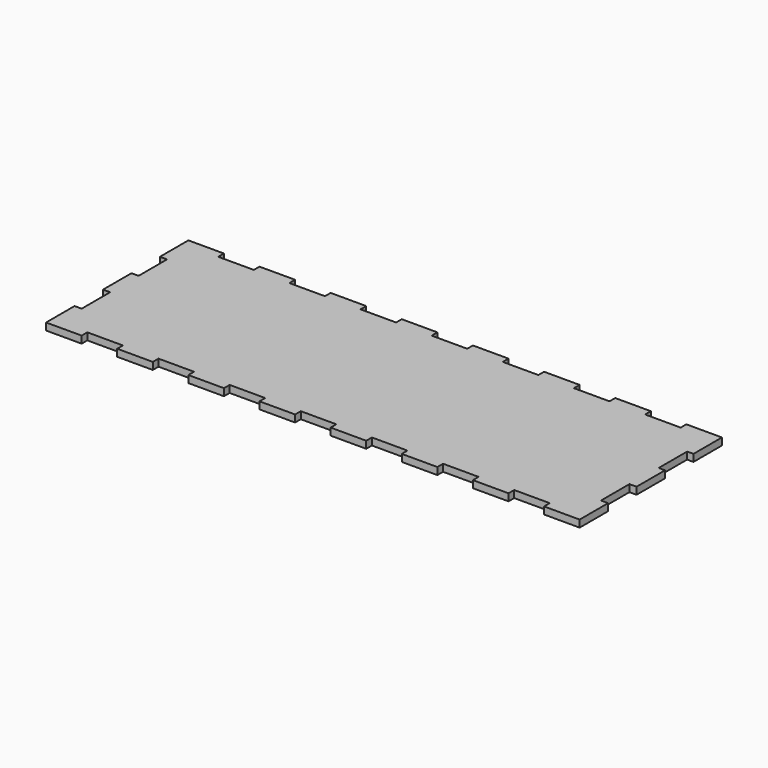
from build123d import *

# Parameters (mm, degrees)
F1_DEPTH = 4


with BuildPart() as f1:
    # F0 (on Top) → F1 (new body)
    with BuildSketch(Plane.XY):
        Polygon((-20, 0), (0, 0), (0, 20), (-4, 20), (-4, 40), (0, 40), (0, 60), (-3.561152, 60), (-3.561152, 80), (0, 80), (0, 100), (-20, 100), (-20, 96), (-40, 96), (-40, 100), (-60, 100), (-60, 96), (-80, 96), (-80, 100), (-100, 100), (-100, 96), (-120, 96), (-120, 100), (-140, 100), (-140, 96), (-160, 96), (-160, 100), (-180, 100), (-180, 96), (-200, 96), (-200, 100), (-220, 100), (-220, 96), (-240, 96), (-240, 100), (-260, 100), (-260, 96), (-280, 96), (-280, 100), (-300, 100), (-300, 80), (-296, 80), (-296, 60), (-300, 60), (-300, 40), (-296, 40), (-296, 20), (-300, 20), (-300, 0), (-280, 0), (-280, 4), (-260, 4), (-260, 0), (-240, 0), (-240, 4), (-220, 4), (-220, 0), (-200, 0), (-200, 4), (-180, 4), (-180, 0), (-160, 0), (-160, 4), (-140, 4), (-140, 0), (-120, 0), (-120, 4), (-100, 4), (-100, 0), (-80, 0), (-80, 4), (-60, 4), (-60, 0), (-40, 0), (-40, 4), (-20, 4), align=None)
    extrude(amount=F1_DEPTH)


solid = f1.part
